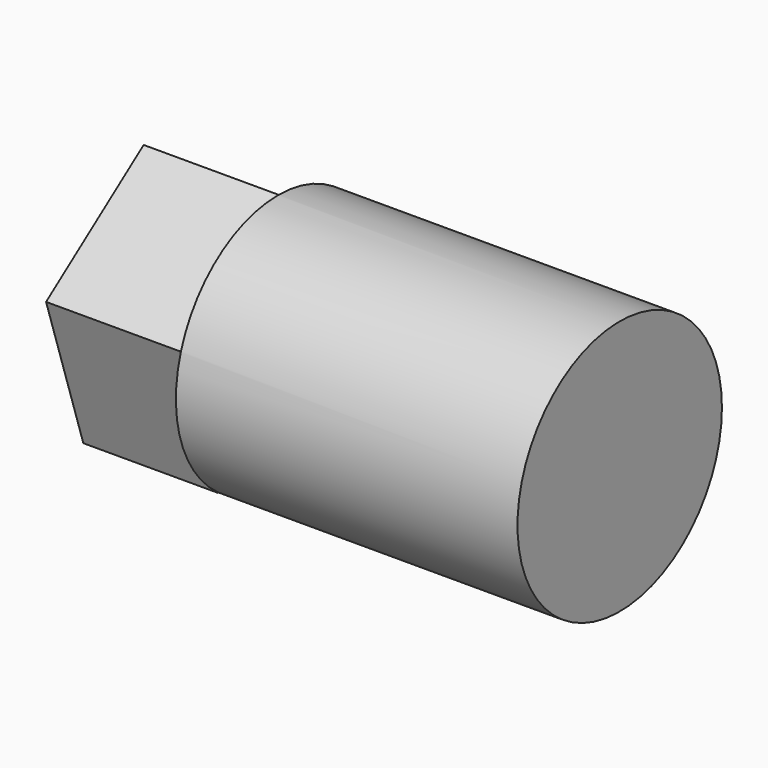
from build123d import *

# Parameters (mm, degrees)
F0_R     = 9.5
F2_DEPTH = 25.4
F3_DEPTH = 10


with BuildPart() as f2:
    # F0 (on Right) → F2 (new body)
    with BuildSketch(Plane.YZ):
        Circle(F0_R)
    extrude(amount=F2_DEPTH)

    # F1 (on Right) → F3 (join)
    with BuildSketch(Plane.YZ):
        Polygon((9.067355, 2.946162), (0, 9.533981), (-9.067355, 2.946162), (-5.603933, -7.713153), (5.603933, -7.713153), align=None)
    extrude(amount=-F3_DEPTH)


solid = f2.part
